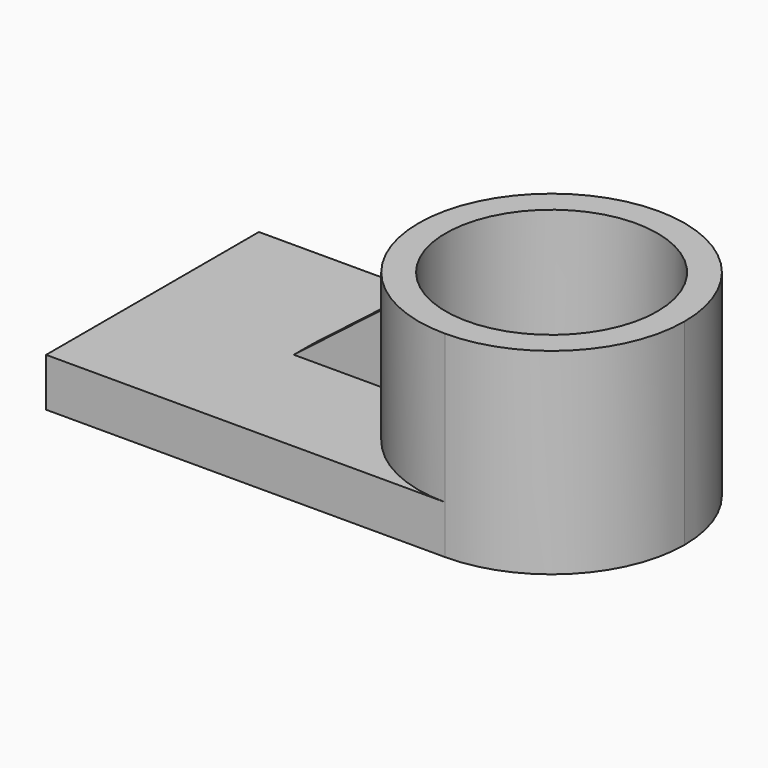
from build123d import *

# Parameters (mm, degrees)
F0_R          = 55.632666
F1_DEPTH      = 25.4
F2_DEPTH      = 103.378
F4_DEPTH      = 6.35
F4_DEPTH_BACK = 6.35


with BuildPart() as f1:
    # F0 (on Top) → F1 (new body)
    with BuildSketch(Plane.XY):
        with BuildLine():
            Line((-139.827257, 69.913628), (-139.827257, -69.913628))
            Line((-139.827257, -69.913628), (69.913628, -69.913628))
            ThreePointArc((69.913628, -69.913628), (0, 0), (69.913628, 69.913628))
            Line((69.913628, 69.913628), (-139.827257, 69.913628))
        make_face()
        with BuildLine():
            ThreePointArc((69.913628, 69.913628), (0, 0), (69.913628, -69.913628))
            ThreePointArc((69.913628, -69.913628), (119.350029, -49.436401), (139.827257, 0))
            ThreePointArc((139.827257, 0), (119.350029, 49.436401), (69.913628, 69.913628))
        make_face()
        with Locations((69.913628, 0)):
            Circle(F0_R, mode=Mode.SUBTRACT)
    extrude(amount=F1_DEPTH)

    # F0 (on Top) → F2 (join)
    with BuildSketch(Plane.XY):
        with BuildLine():
            ThreePointArc((69.913628, 69.913628), (0, 0), (69.913628, -69.913628))
            ThreePointArc((69.913628, -69.913628), (119.350029, -49.436401), (139.827257, 0))
            ThreePointArc((139.827257, 0), (119.350029, 49.436401), (69.913628, 69.913628))
        make_face()
        with Locations((69.913628, 0)):
            Circle(F0_R, mode=Mode.SUBTRACT)
    extrude(amount=F2_DEPTH)

    # F3 (on Front) → F4 (join, two sides)
    with BuildSketch(Plane.XZ) as f4_sk:
        Polygon((14.280962, 83.201781), (-60.483344, 25.4), (14.280962, 25.4), align=None)
    extrude(amount=F4_DEPTH)
    extrude(f4_sk.sketch, amount=-F4_DEPTH_BACK)


solid = f1.part
